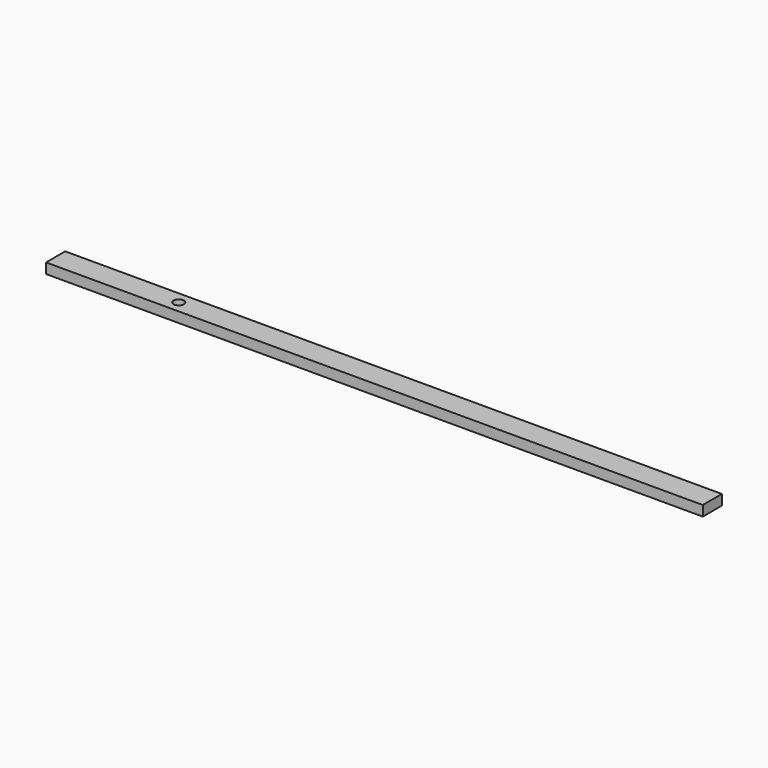
from build123d import *

# Parameters (mm, degrees)
F0_W     = 2438.4
F0_H     = 88.9
F1_DEPTH = 38.1
F3_DEPTH = 38.1


with BuildPart() as f1:
    # F0 (on Top) → F1 (new body)
    with BuildSketch(Plane.XY):
        with Locations((1219.2, -44.45)):
            Rectangle(F0_W, F0_H)
    extrude(amount=F1_DEPTH)

    # F2 (on face) → F3 (cut)
    with BuildSketch(Plane.XY.offset(38.1)):
        with BuildLine():
            ThreePointArc((476.25, -44.45), (457.2, -25.4), (438.15, -44.45))
            ThreePointArc((438.15, -44.45), (457.2, -63.5), (476.25, -44.45))
        make_face()
    extrude(amount=-F3_DEPTH, mode=Mode.SUBTRACT)


solid = f1.part
